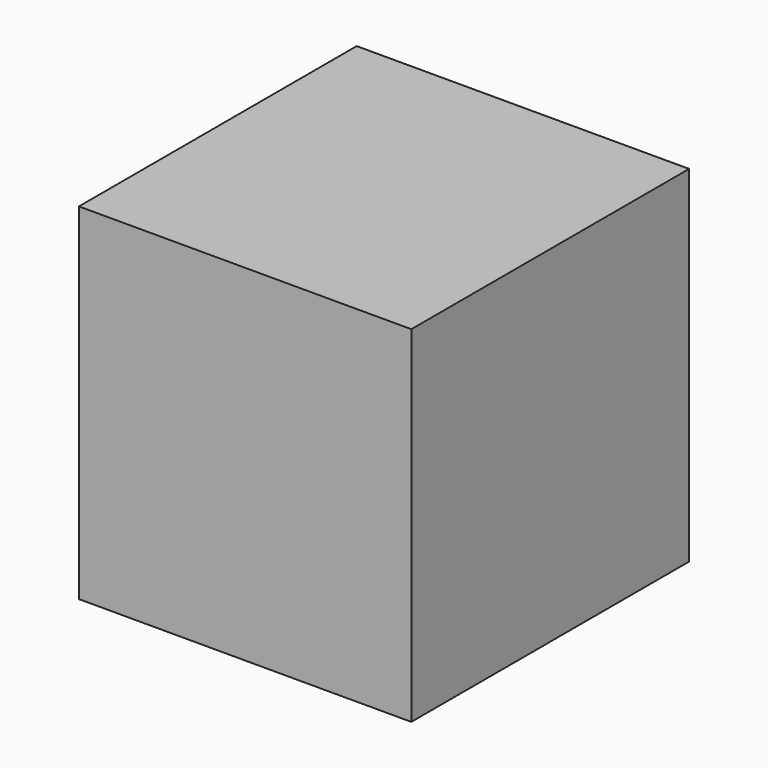
from build123d import *

# Parameters (mm, degrees)
F0_W     = 64.959034
F0_H     = 67.849822
F0_W_2   = 9.7186
F0_H_2   = 14.28096
F1_DEPTH = 67.564


with BuildPart() as f1:
    # F0 (on Top) → F1 (new body)
    with BuildSketch(Plane.XY):
        with Locations((-32.479517, 33.924911)):
            Rectangle(F0_W, F0_H)
        with Locations((-16.939249, 27.425531)):
            Rectangle(F0_W_2, F0_H_2, mode=Mode.SUBTRACT)
        with Locations((-16.939249, 27.425531)):
            Rectangle(F0_W_2, F0_H_2)
    extrude(amount=F1_DEPTH)


solid = f1.part
